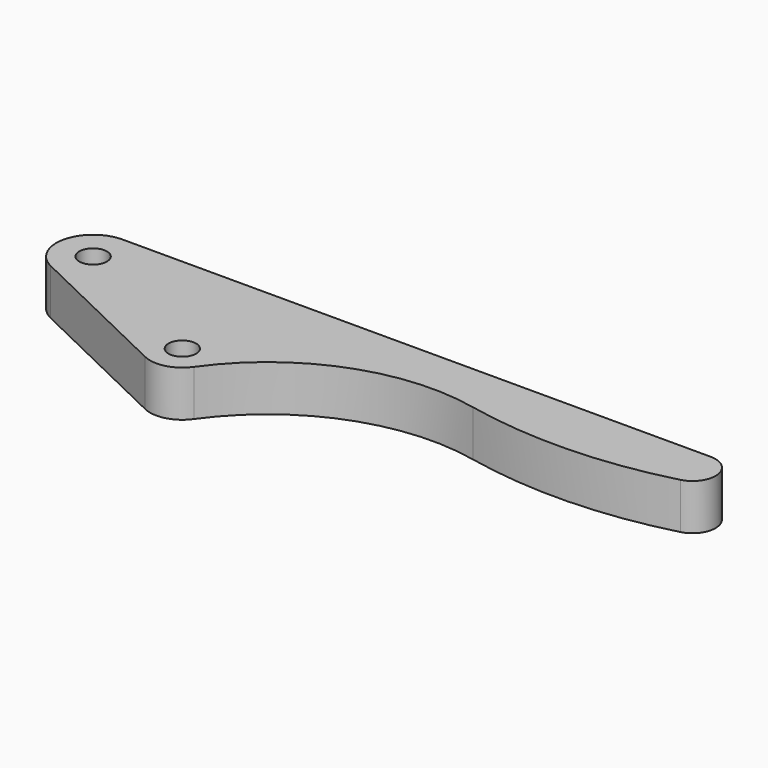
from build123d import *

# Parameters (mm, degrees)
SKETCH_R  = 3
PAD_DEPTH = 10


with BuildPart() as part:
    # Sketch → Pad (new body)
    with BuildSketch(Plane.XY):
        with BuildLine():
            Line((128, 8), (0, 8))
            ThreePointArc((0, 8), (-7.799464, 1.77999), (-3.470741, -7.207909))
            Line((-3.470741, -7.207909), (29.963102, -23.306921))
            ThreePointArc((29.963102, -23.306921), (34.757227, -23.775851), (38.719233, -21.036134))
            ThreePointArc((85, -3), (59.145702, -5.054156), (38.719233, -21.036134))
            ThreePointArc((85, -3), (107.208893, -5.005497), (129.281329, -1.833032))
            ThreePointArc((129.281329, -1.833032), (132.958082, 3.646081), (128, 8))
        make_face()
        with Locations((33, -17)):
            Circle(SKETCH_R, mode=Mode.SUBTRACT)
        Circle(SKETCH_R, mode=Mode.SUBTRACT)
    extrude(amount=PAD_DEPTH)


solid = part.part
